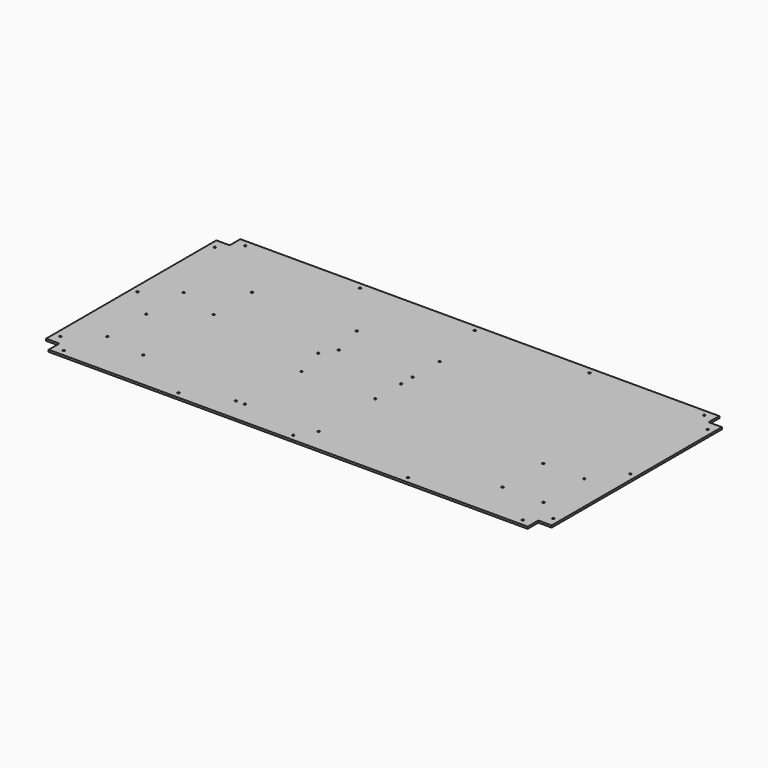
from build123d import *

# Parameters (mm, degrees)
F0_W     = 760
F0_H     = 360
F1_DEPTH = 1.5
F2_W     = 20
F2_H     = 20
F3_DEPTH = 3.001
F4_R     = 1.55
F5_DEPTH = 3.001
F6_R     = 1.55
F7_DEPTH = 3.001


with BuildPart() as f1:
    # F0 (on Top) → F1 (new body, symmetric)
    with BuildSketch(Plane.XY):
        Rectangle(F0_W, F0_H)
    extrude(amount=F1_DEPTH, both=True)

    # F2 (on face) → F3 (cut, through all)
    with BuildSketch(Plane.XY.offset(1.5)):
        with Locations((-370, -170)):
            Rectangle(F2_W, F2_H)
        with Locations((-370, 170)):
            Rectangle(F2_W, F2_H)
        with Locations((370, -170)):
            Rectangle(F2_W, F2_H)
        with Locations((370, 170)):
            Rectangle(F2_W, F2_H)
    extrude(amount=-F3_DEPTH, mode=Mode.SUBTRACT)

    # F4 (on face) → F5 (cut, through all)
    with BuildSketch(Plane.XY.offset(1.5)):
        with Locations((17.191807, 32.188676)):
            Circle(F4_R)
        with Locations((-93.650987, 32.188676)):
            Circle(F4_R)
        with Locations((-327.004319, 32.188676)):
            Circle(F4_R)
        with Locations((17.191807, -144.338951)):
            Circle(F4_R)
        with Locations((-93.650987, -144.338951)):
            Circle(F4_R)
        with Locations((-327.004319, -110.837057)):
            Circle(F4_R)
        with Locations((-327.004319, -37.96187)):
            Circle(F4_R)
        with Locations((-93.650987, -37.96187)):
            Circle(F4_R)
        with Locations((17.191807, -37.96187)):
            Circle(F4_R)
        with Locations((274.215, -43.55)):
            Circle(F4_R)
        with Locations((335.935, -43.55)):
            Circle(F4_R)
        with Locations((274.215, -120.15)):
            Circle(F4_R)
        with Locations((335.935, -120.15)):
            Circle(F4_R)
        with Locations((-264.748193, -121.478951)):
            Circle(F4_R)
        with Locations((-107.268193, 10.601049)):
            Circle(F4_R)
        with Locations((17.191807, 10.601049)):
            Circle(F4_R)
        with Locations((-107.268193, 82.981049)):
            Circle(F4_R)
        with Locations((17.191807, 82.981049)):
            Circle(F4_R)
        with Locations((-107.268193, -144.338951)):
            Circle(F4_R)
        with Locations((-264.748193, 10.601049)):
            Circle(F4_R)
        with Locations((-264.748193, 82.981049)):
            Circle(F4_R)
    extrude(amount=-F5_DEPTH, mode=Mode.SUBTRACT)

    # F6 (on face) → F7 (cut, through all)
    with BuildSketch(Plane.XY.offset(1.5)):
        with Locations((-370.5, 145)):
            Circle(F6_R)
        with Locations((-370.5, 0)):
            Circle(F6_R)
        with Locations((-370.5, -145)):
            Circle(F6_R)
        with Locations((370.5, -145)):
            Circle(F6_R)
        with Locations((370.5, 0)):
            Circle(F6_R)
        with Locations((370.5, 145)):
            Circle(F6_R)
        with Locations((0, 170.5)):
            Circle(F6_R)
        with Locations((172.5, 170.5)):
            Circle(F6_R)
        with Locations((345, 170.5)):
            Circle(F6_R)
        with Locations((-172.5, 170.5)):
            Circle(F6_R)
        with Locations((-345, 170.5)):
            Circle(F6_R)
        with Locations((-345, -170.5)):
            Circle(F6_R)
        with Locations((-172.5, -170.5)):
            Circle(F6_R)
        with Locations((0, -170.5)):
            Circle(F6_R)
        with Locations((172.5, -170.5)):
            Circle(F6_R)
        with Locations((345, -170.5)):
            Circle(F6_R)
    extrude(amount=-F7_DEPTH, mode=Mode.SUBTRACT)


solid = f1.part
